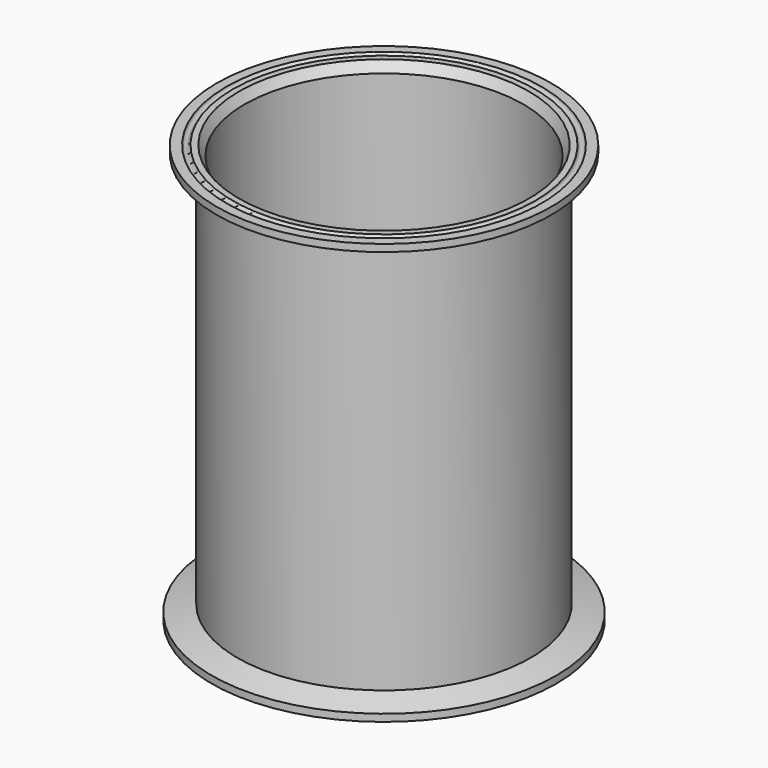
from build123d import *

# Parameters (mm, degrees)
F2_SIZE2 = 2.3094010768
F2_SIZE  = 4


with BuildPart() as f1:
    # F0 (on Front) → F1 (revolve)
    with BuildSketch(Plane.XZ):
        with BuildLine():
            Line((-65.3747676625, 0), (-61.39, 0))
            Line((-61.39, 0), (-58.39, 0))
            Line((-58.39, 0), (-58.39, 175))
            Line((-58.39, 175), (-63.2647676625, 175))
            ThreePointArc((-63.2647676625, 175), (-64.631648623, 173.6331190395), (-65.9985295835, 175))
            Line((-65.9985295835, 175), (-70.04, 175))
            Line((-70.04, 175), (-70.04, 172))
            Line((-70.04, 172), (-61.39, 169))
            Line((-61.39, 169), (-61.39, 6))
            Line((-61.39, 6), (-72.15, 3))
            Line((-72.15, 3), (-72.15, 0))
            Line((-72.15, 0), (-68.1085295835, 0))
            ThreePointArc((-68.1085295835, 0), (-66.741648623, 1.3668809605), (-65.3747676625, 0))
        make_face()
    revolve(axis=Axis((0, 0, 19.3934533745), (0, 0, 1)))

    # F2
    f2_edges = [f1.edges().sort_by_distance(p)[0] for p in [
        (58.39, 0, 0),
        (58.39, 0, 175),
    ]]
    f2_side = f1.faces().sort_by_distance((58.39, 0, 87.5))[0]
    chamfer(f2_edges, length=F2_SIZE, length2=F2_SIZE2, reference=f2_side)


solid = f1.part
